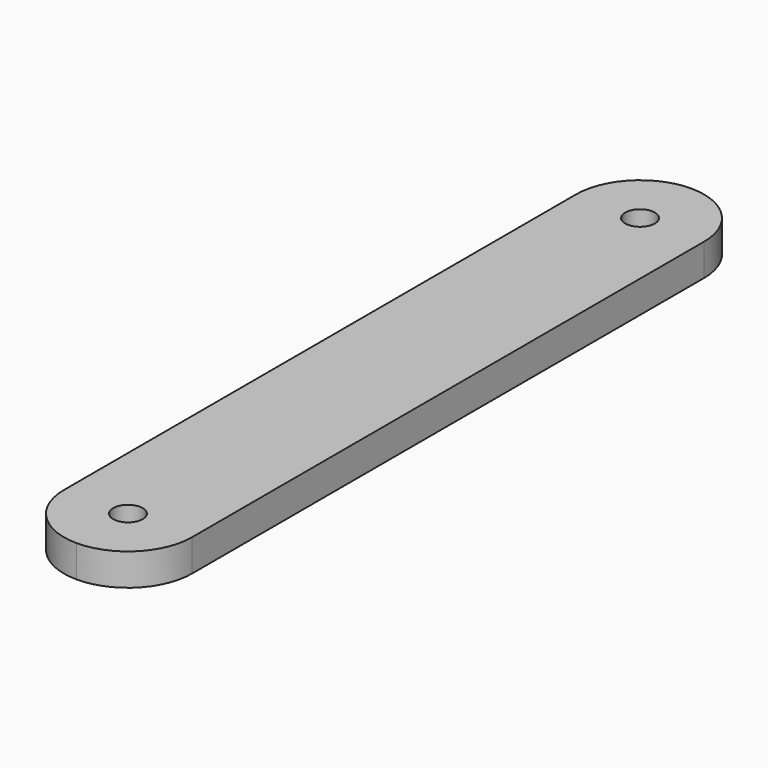
from build123d import *

# Parameters (mm, degrees)
F0_R     = 1.4732
F1_DEPTH = 3.175


with BuildPart() as f1:
    # F0 (on Top) → F1 (new body)
    with BuildSketch(Plane.XY):
        with BuildLine():
            Line((6.35, -31.75), (6.35, 31.75))
            ThreePointArc((6.35, 31.75), (4.490128, 36.240128), (0, 38.1))
            ThreePointArc((0, 38.1), (-4.490128, 36.240128), (-6.35, 31.75))
            Line((-6.35, 31.75), (-6.35, -31.75))
            ThreePointArc((-6.35, -31.75), (-4.490128, -36.240128), (0, -38.1))
            ThreePointArc((0, -38.1), (4.490128, -36.240128), (6.35, -31.75))
        make_face()
        with Locations((0, -31.75)):
            Circle(F0_R, mode=Mode.SUBTRACT)
        with Locations((0, 31.75)):
            Circle(F0_R, mode=Mode.SUBTRACT)
    extrude(amount=F1_DEPTH)


solid = f1.part
